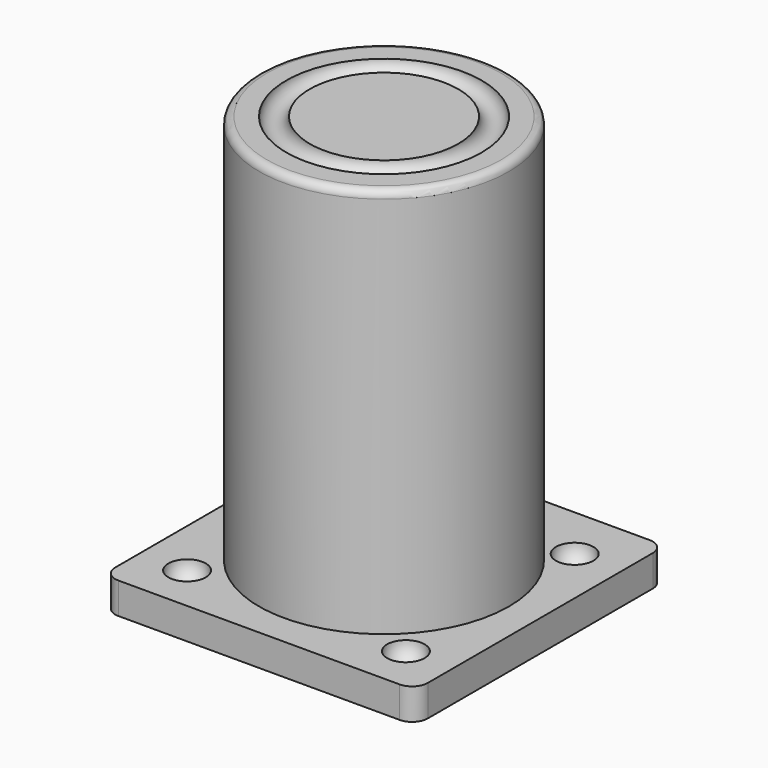
from build123d import *

# Parameters (mm, degrees)
TORUS_R        = 1.5
CYLINDER_R     = 16
CYLINDER_DEPTH = 50
FILLET001_R    = 1
ARRAY_X_COUNT  = 2
ARRAY_X_PITCH  = 28
ARRAY_Y_COUNT  = 2
ARRAY_Y_PITCH  = 27
BOX_W          = 40
BOX_H          = 40
BOX_DEPTH      = 4
FILLET_R       = 2


with BuildPart() as torus:
    # Torus → Torus (revolve)
    with BuildSketch(Plane(origin=(20, 20, 54), x_dir=(1, 0, 0), z_dir=(0, -1, 0))):
        with Locations((11, 0)):
            Circle(TORUS_R)
    revolve(axis=Axis((20, 20, 54), (0, 0, 1)))


with BuildPart() as cut001:
    # Cylinder → Cylinder (new body)
    with BuildSketch(Plane(origin=(20, 20, 4), x_dir=(1, 0, 0), z_dir=(0, 0, 1))):
        Circle(CYLINDER_R)
    extrude(amount=CYLINDER_DEPTH)

    # Fillet001
    fillet001_edges = [cut001.edges().sort_by_distance(p)[0] for p in [
        (4, 20, 54),
    ]]
    fillet(fillet001_edges, radius=FILLET001_R)

    # Cut001: cut Torus
    add(torus.part, mode=Mode.SUBTRACT)


with BuildPart() as array:
    # Sphere → Sphere (revolve)
    with BuildSketch(Plane(origin=(6, 6, 4), x_dir=(1, 0, 0), z_dir=(0, -1, 0))):
        with BuildLine():
            ThreePointArc((0, -2.4), (2.4, 0), (0, 2.4))
            Line((0, 2.4), (0, -2.4))
        make_face()
    revolve(axis=Axis((6, 6, 4), (0, 0, 1)))

    # Array X: Array ×2


with BuildPart() as array_1:
    add(array.part)
    with Locations(*[(i * ARRAY_X_PITCH, 0, 0) for i in range(1, ARRAY_X_COUNT)]):
        add(array.part)

    # Array Y: Array ×2


with BuildPart() as array_2:
    add(array_1.part)
    with Locations(*[(0, i * ARRAY_Y_PITCH, 0) for i in range(1, ARRAY_Y_COUNT)]):
        add(array_1.part)


with BuildPart() as fusion:
    # Box → Box (new body)
    with BuildSketch(Plane.XY):
        with Locations((20, 20)):
            Rectangle(BOX_W, BOX_H)
    extrude(amount=BOX_DEPTH)

    # Fillet
    fillet_edges = [fusion.edges().sort_by_distance(p)[0] for p in [
        (0, 0, 2),
        (0, 40, 2),
        (40, 0, 2),
        (40, 40, 2),
    ]]
    fillet(fillet_edges, radius=FILLET_R)

    # Cut: cut Array
    add(array_2.part, mode=Mode.SUBTRACT)

    # Fusion: union Cut001
    add(cut001.part)


solid = fusion.part
